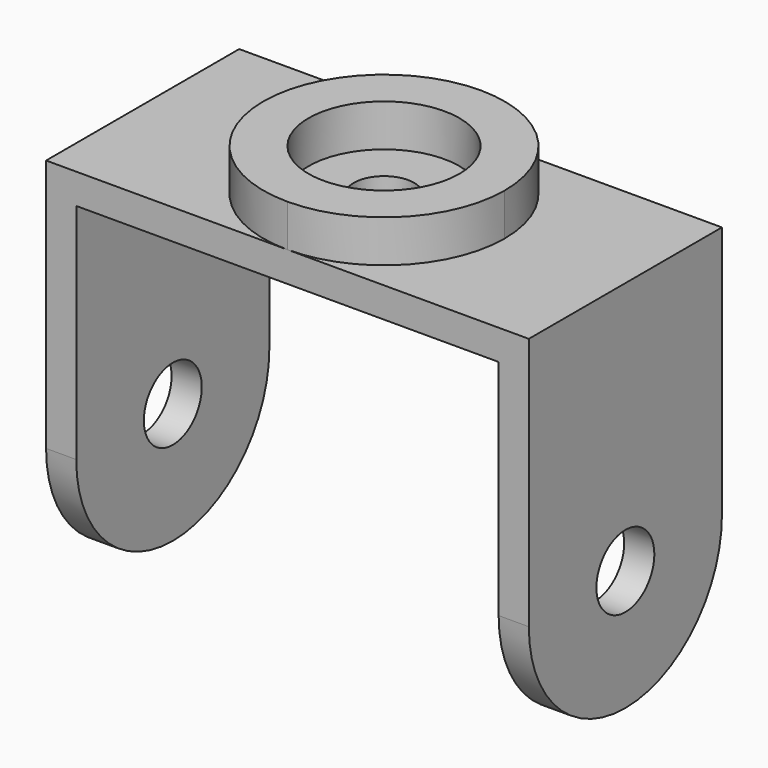
from build123d import *

# Parameters (mm, degrees)
F0_W     = 5
F0_H     = 40
F1_DEPTH = 5
F0_R     = 12.5
F2_DEPTH = 12
F0_R_2   = 5
F3_DEPTH = 5
F4_R     = 6
F5_DEPTH = 5
F6_R     = 6
F7_DEPTH = 5


with BuildPart() as f1:
    # F0 (on Top) → F1 (new body)
    with BuildSketch(Plane.XY):
        with Locations((37.5, 0)):
            Rectangle(F0_W, F0_H)
        with BuildLine():
            Line((0, -20), (35, -20))
            Line((35, -20), (35, 20))
            Line((35, 20), (0, 20))
            ThreePointArc((0, 20), (14.142136, 14.142136), (20, 0))
            ThreePointArc((20, 0), (14.142136, -14.142136), (0, -20))
        make_face()
        with BuildLine():
            Line((-35, -20), (0, -20))
            ThreePointArc((0, -20), (-20, 0), (0, 20))
            Line((0, 20), (-35, 20))
            Line((-35, 20), (-35, -20))
        make_face()
        with Locations((-37.5, 0)):
            Rectangle(F0_W, F0_H)
    extrude(amount=F1_DEPTH)

    # F0 (on Top) → F2 (join)
    with BuildSketch(Plane.XY):
        with BuildLine():
            ThreePointArc((0, 20), (-20, 0), (0, -20))
            ThreePointArc((0, -20), (14.142136, -14.142136), (20, 0))
            ThreePointArc((20, 0), (14.142136, 14.142136), (0, 20))
        make_face()
        Circle(F0_R, mode=Mode.SUBTRACT)
    extrude(amount=F2_DEPTH)

    # F0 (on Top) → F3 (join)
    with BuildSketch(Plane.XY):
        Circle(F0_R)
        Circle(F0_R_2, mode=Mode.SUBTRACT)
    extrude(amount=F3_DEPTH)

    # F4 (on face) → F5 (join)
    with BuildSketch(Plane(origin=(-40, 0, 0), x_dir=(0, -1, 0), z_dir=(-1, 0, 0))):
        with BuildLine():
            Line((20, 0), (-20, 0))
            Line((-20, 0), (-20, -37))
            ThreePointArc((-20, -37), (0, -57), (20, -37))
            Line((20, -37), (20, 0))
        make_face()
        with Locations((0, -37)):
            Circle(F4_R, mode=Mode.SUBTRACT)
    extrude(amount=-F5_DEPTH)

    # F6 (on face) → F7 (join)
    with BuildSketch(Plane.YZ.offset(40)):
        with BuildLine():
            Line((-20, 5), (-20, 0))
            Line((-20, 0), (-20, -37))
            ThreePointArc((-20, -37), (0, -57), (20, -37))
            Line((20, -37), (20, 0))
            Line((20, 0), (20, 5))
            Line((20, 5), (-20, 5))
        make_face()
        with Locations((0, -37)):
            Circle(F6_R, mode=Mode.SUBTRACT)
    extrude(amount=-F7_DEPTH)


solid = f1.part
